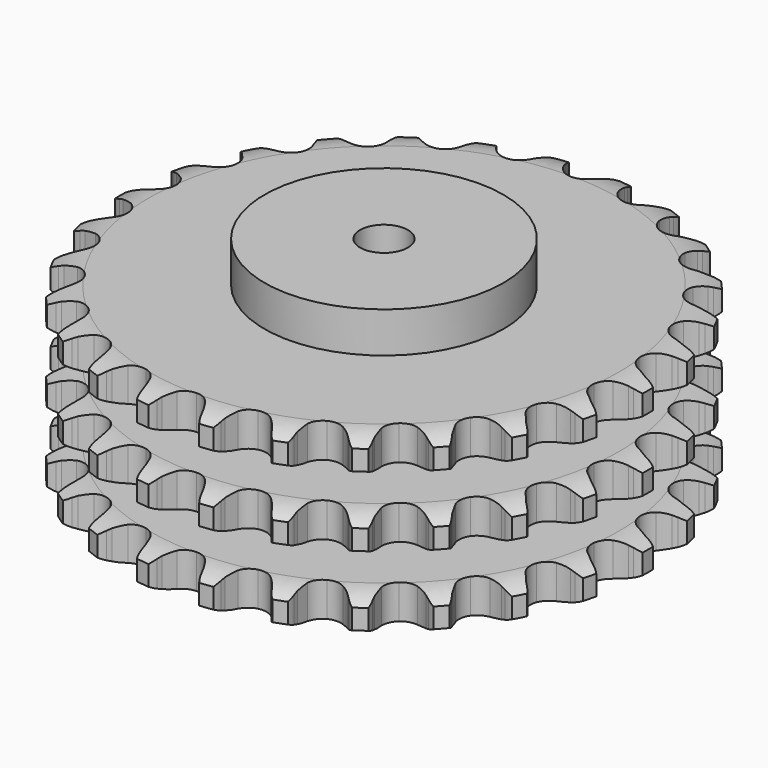
from build123d import *

# Parameters (mm, degrees)
PAD_DEPTH         = 146
SKETCH001_R       = 100
PAD001_DEPTH      = 180
SKETCH002_R       = 20
POCKET_DEPTH      = 0.001
POCKET_DEPTH_BACK = 180.001


with BuildPart() as part:
    # Sprocket → Pad (new body)
    with BuildSketch(Plane.XY):
        with BuildLine():
            ThreePointArc((-27.420974, 225.83204), (-21.977436, 220.908406), (-18.278157, 214.568877))
            Line((-18.278157, 214.568877), (-16.856778, 210.95338))
            ThreePointArc((-16.856778, 210.95338), (-14.597712, 206.200739), (-11.70509, 201.804865))
            ThreePointArc((-11.70509, 201.804865), (-6.530916, 197.536687), (0, 196.008112))
            ThreePointArc((0, 196.008112), (6.530916, 197.536687), (11.70509, 201.804865))
            ThreePointArc((11.70509, 201.804865), (14.597712, 206.200739), (16.856778, 210.95338))
            Line((16.856778, 210.95338), (18.278157, 214.568877))
            ThreePointArc((18.278157, 214.568877), (21.977436, 220.908406), (27.420974, 225.83204))
            ThreePointArc((27.420974, 225.83204), (31.528031, 219.748753), (33.602667, 212.708144))
            Line((33.602667, 212.708144), (34.117498, 208.85755))
            ThreePointArc((34.117498, 208.85755), (35.173538, 203.702382), (36.930104, 198.741993))
            ThreePointArc((36.930104, 198.741993), (40.932484, 193.359581), (46.907812, 190.312473))
            ThreePointArc((46.907812, 190.312473), (53.614763, 190.23368), (59.660026, 193.139571))
            Line((59.660026, 193.139571), (66.851399, 200.789368))
            ThreePointArc((66.851399, 200.789368), (67.933609, 202.403155), (69.09672, 203.959646))
            ThreePointArc((69.09672, 203.959646), (74.205653, 209.229664), (80.669315, 212.707503))
            ThreePointArc((80.669315, 212.707503), (83.201202, 205.818102), (83.530625, 198.485588))
            Line((83.530625, 198.485588), (83.108989, 194.623677))
            ThreePointArc((83.108989, 194.623677), (82.90063, 189.365582), (83.419055, 184.12896))
            ThreePointArc((83.419055, 184.12896), (86.017037, 177.945118), (91.089512, 173.556564))
            ThreePointArc((91.089512, 173.556564), (97.582715, 171.874982), (104.147739, 173.249707))
            Line((104.147739, 173.249707), (112.960859, 178.956207))
            ThreePointArc((112.960859, 178.956207), (114.397827, 180.264111), (115.899633, 181.497022))
            ThreePointArc((115.899633, 181.497022), (122.121308, 185.391255), (129.229449, 187.221179))
            ThreePointArc((129.229449, 187.221179), (130.039022, 179.926051), (128.604087, 172.72777))
            Line((128.604087, 172.72777), (127.270487, 169.078984))
            ThreePointArc((127.270487, 169.078984), (125.809839, 164.023543), (125.059993, 158.81502))
            ThreePointArc((125.059993, 158.81502), (126.102592, 152.189132), (129.97742, 146.714179))
            ThreePointArc((129.97742, 146.714179), (135.879514, 143.527535), (142.582764, 143.2912))
            Line((142.582764, 143.2912), (152.505446, 146.722761))
            ThreePointArc((152.505446, 146.722761), (154.21366, 147.648771), (155.966881, 148.486451))
            ThreePointArc((155.966881, 148.486451), (162.939716, 150.77858), (170.279237, 150.85424))
            ThreePointArc((170.279237, 150.85424), (169.319447, 143.577352), (166.203547, 136.931643))
            Line((166.203547, 136.931643), (164.035487, 133.708035))
            ThreePointArc((164.035487, 133.708035), (161.407436, 129.149052), (159.432899, 124.271329))
            ThreePointArc((159.432899, 124.271329), (158.859523, 117.588467), (161.311514, 111.345299))
            ThreePointArc((161.311514, 111.345299), (166.27949, 106.83879), (172.731396, 105.005129))
            Line((172.731396, 105.005129), (183.18697, 105.962323))
            ThreePointArc((183.18697, 105.962323), (185.067155, 106.452622), (186.9699, 106.846387))
            ThreePointArc((186.9699, 106.846387), (194.28866, 107.403202), (201.433014, 105.720201))
            ThreePointArc((201.433014, 105.720201), (198.759641, 98.884459), (194.143861, 93.177546))
            Line((194.143861, 93.177546), (191.267341, 90.566461))
            ThreePointArc((191.267341, 90.566461), (187.624621, 86.768887), (184.540144, 82.50544))
            ThreePointArc((184.540144, 82.50544), (182.384116, 76.153987), (183.270769, 69.505434))
            ThreePointArc((183.270769, 69.505434), (187.015906, 63.940962), (192.841508, 60.616542))
            Line((192.841508, 60.616542), (203.222333, 59.043739))
            ThreePointArc((203.222333, 59.043739), (205.16522, 59.069833), (207.106909, 58.996799))
            ThreePointArc((207.106909, 58.996799), (214.346253, 57.785941), (220.880237, 54.442089))
            ThreePointArc((220.880237, 54.442089), (216.648647, 48.444761), (210.80124, 44.008308))
            Line((210.80124, 44.008308), (207.383433, 42.161493))
            ThreePointArc((207.383433, 42.161493), (202.937744, 39.34603), (198.922587, 35.944635))
            ThreePointArc((198.922587, 35.944635), (195.309208, 30.293715), (194.578992, 23.626167))
            ThreePointArc((194.578992, 23.626167), (196.883638, 17.327118), (201.744373, 12.705142))
            Line((201.744373, 12.705142), (211.447153, 8.693747))
            ThreePointArc((211.447153, 8.693747), (213.339828, 8.25412), (215.207616, 7.718532))
            ThreePointArc((215.207616, 7.718532), (221.946822, 4.81037), (227.490704, 0))
            ThreePointArc((227.490704, 0), (221.946822, -4.81037), (215.207616, -7.718532))
            Line((215.207616, -7.718532), (211.447153, -8.693747))
            ThreePointArc((211.447153, -8.693747), (206.456864, -10.363475), (201.744373, -12.705142))
            ThreePointArc((201.744373, -12.705142), (196.883638, -17.327118), (194.578992, -23.626167))
            ThreePointArc((194.578992, -23.626167), (195.309208, -30.293715), (198.922587, -35.944635))
            Line((198.922587, -35.944635), (207.383433, -42.161493))
            ThreePointArc((207.383433, -42.161493), (209.1159, -43.041292), (210.80124, -44.008308))
            ThreePointArc((210.80124, -44.008308), (216.648647, -48.444761), (220.880237, -54.442089))
            ThreePointArc((220.880237, -54.442089), (214.346253, -57.785941), (207.106909, -58.996799))
            Line((207.106909, -58.996799), (203.222333, -59.043739))
            ThreePointArc((203.222333, -59.043739), (197.977461, -59.470693), (192.841508, -60.616542))
            ThreePointArc((192.841508, -60.616542), (187.015906, -63.940962), (183.270769, -69.505434))
            ThreePointArc((183.270769, -69.505434), (182.384116, -76.153987), (184.540144, -82.50544))
            Line((184.540144, -82.50544), (191.267341, -90.566461))
            ThreePointArc((191.267341, -90.566461), (192.738917, -91.835301), (194.143861, -93.177546))
            ThreePointArc((194.143861, -93.177546), (198.759641, -98.884459), (201.433014, -105.720201))
            ThreePointArc((201.433014, -105.720201), (194.28866, -107.403202), (186.9699, -106.846387))
            Line((186.9699, -106.846387), (183.18697, -105.962323))
            ThreePointArc((183.18697, -105.962323), (177.992327, -105.12169), (172.731396, -105.005129))
            ThreePointArc((172.731396, -105.005129), (166.27949, -106.83879), (161.311514, -111.345299))
            ThreePointArc((161.311514, -111.345299), (158.859523, -117.588467), (159.432899, -124.271329))
            Line((159.432899, -124.271329), (164.035487, -133.708035))
            ThreePointArc((164.035487, -133.708035), (165.160648, -135.292176), (166.203547, -136.931643))
            ThreePointArc((166.203547, -136.931643), (169.319447, -143.577352), (170.279237, -150.85424))
            ThreePointArc((170.279237, -150.85424), (162.939716, -150.77858), (155.966881, -148.486451))
            Line((155.966881, -148.486451), (152.505446, -146.722761))
            ThreePointArc((152.505446, -146.722761), (147.662926, -144.663397), (142.582764, -143.2912))
            ThreePointArc((142.582764, -143.2912), (135.879514, -143.527535), (129.97742, -146.714179))
            ThreePointArc((129.97742, -146.714179), (126.102592, -152.189132), (125.059993, -158.81502))
            Line((125.059993, -158.81502), (127.270487, -169.078984))
            ThreePointArc((127.270487, -169.078984), (127.983843, -170.886361), (128.604087, -172.72777))
            ThreePointArc((128.604087, -172.72777), (130.039022, -179.926051), (129.229449, -187.221179))
            ThreePointArc((129.229449, -187.221179), (122.121308, -185.391255), (115.899633, -181.497022))
            Line((115.899633, -181.497022), (112.960859, -178.956207))
            ThreePointArc((112.960859, -178.956207), (108.751893, -175.797792), (104.147739, -173.249707))
            ThreePointArc((104.147739, -173.249707), (97.582715, -171.874982), (91.089512, -173.556564))
            ThreePointArc((91.089512, -173.556564), (86.017037, -177.945118), (83.419055, -184.12896))
            Line((83.419055, -184.12896), (83.108989, -194.623677))
            ThreePointArc((83.108989, -194.623677), (83.369082, -196.549253), (83.530625, -198.485588))
            ThreePointArc((83.530625, -198.485588), (83.201202, -205.818102), (80.669315, -212.707503))
            ThreePointArc((80.669315, -212.707503), (74.205653, -209.229664), (69.09672, -203.959646))
            Line((69.09672, -203.959646), (66.851399, -200.789368))
            ThreePointArc((66.851399, -200.789368), (63.520596, -196.71546), (59.660026, -193.139571))
            ThreePointArc((59.660026, -193.139571), (53.614763, -190.23368), (46.907812, -190.312473))
            ThreePointArc((46.907812, -190.312473), (40.932484, -193.359581), (36.930104, -198.741993))
            Line((36.930104, -198.741993), (34.117498, -208.85755))
            ThreePointArc((34.117498, -208.85755), (33.909213, -210.789416), (33.602667, -212.708144))
            ThreePointArc((33.602667, -212.708144), (31.528031, -219.748753), (27.420974, -225.83204))
            ThreePointArc((27.420974, -225.83204), (21.977436, -220.908406), (18.278157, -214.568877))
            Line((18.278157, -214.568877), (16.856778, -210.95338))
            ThreePointArc((16.856778, -210.95338), (14.597712, -206.200739), (11.70509, -201.804865))
            ThreePointArc((11.70509, -201.804865), (6.530916, -197.536687), (0, -196.008112))
            ThreePointArc((0, -196.008112), (-6.530916, -197.536687), (-11.70509, -201.804865))
            Line((-11.70509, -201.804865), (-16.856778, -210.95338))
            ThreePointArc((-16.856778, -210.95338), (-17.521336, -212.779264), (-18.278157, -214.568877))
            ThreePointArc((-18.278157, -214.568877), (-21.977436, -220.908406), (-27.420974, -225.83204))
            ThreePointArc((-27.420974, -225.83204), (-31.528031, -219.748753), (-33.602667, -212.708144))
            Line((-33.602667, -212.708144), (-34.117498, -208.85755))
            ThreePointArc((-34.117498, -208.85755), (-35.173538, -203.702382), (-36.930104, -198.741993))
            ThreePointArc((-36.930104, -198.741993), (-40.932484, -193.359581), (-46.907812, -190.312473))
            ThreePointArc((-46.907812, -190.312473), (-53.614763, -190.23368), (-59.660026, -193.139571))
            Line((-59.660026, -193.139571), (-66.851399, -200.789368))
            ThreePointArc((-66.851399, -200.789368), (-67.933609, -202.403155), (-69.09672, -203.959646))
            ThreePointArc((-69.09672, -203.959646), (-74.205653, -209.229664), (-80.669315, -212.707503))
            ThreePointArc((-80.669315, -212.707503), (-83.201202, -205.818102), (-83.530625, -198.485588))
            Line((-83.530625, -198.485588), (-83.108989, -194.623677))
            ThreePointArc((-83.108989, -194.623677), (-82.90063, -189.365582), (-83.419055, -184.12896))
            ThreePointArc((-83.419055, -184.12896), (-86.017037, -177.945118), (-91.089512, -173.556564))
            ThreePointArc((-91.089512, -173.556564), (-97.582715, -171.874982), (-104.147739, -173.249707))
            Line((-104.147739, -173.249707), (-112.960859, -178.956207))
            ThreePointArc((-112.960859, -178.956207), (-114.397827, -180.264111), (-115.899633, -181.497022))
            ThreePointArc((-115.899633, -181.497022), (-122.121308, -185.391255), (-129.229449, -187.221179))
            ThreePointArc((-129.229449, -187.221179), (-130.039022, -179.926051), (-128.604087, -172.72777))
            Line((-128.604087, -172.72777), (-127.270487, -169.078984))
            ThreePointArc((-127.270487, -169.078984), (-125.809839, -164.023543), (-125.059993, -158.81502))
            ThreePointArc((-125.059993, -158.81502), (-126.102592, -152.189132), (-129.97742, -146.714179))
            ThreePointArc((-129.97742, -146.714179), (-135.879514, -143.527535), (-142.582764, -143.2912))
            Line((-142.582764, -143.2912), (-152.505446, -146.722761))
            ThreePointArc((-152.505446, -146.722761), (-154.21366, -147.648771), (-155.966881, -148.486451))
            ThreePointArc((-155.966881, -148.486451), (-162.939716, -150.77858), (-170.279237, -150.85424))
            ThreePointArc((-170.279237, -150.85424), (-169.319447, -143.577352), (-166.203547, -136.931643))
            Line((-166.203547, -136.931643), (-164.035487, -133.708035))
            ThreePointArc((-164.035487, -133.708035), (-161.407436, -129.149052), (-159.432899, -124.271329))
            ThreePointArc((-159.432899, -124.271329), (-158.859523, -117.588467), (-161.311514, -111.345299))
            ThreePointArc((-161.311514, -111.345299), (-166.27949, -106.83879), (-172.731396, -105.005129))
            Line((-172.731396, -105.005129), (-183.18697, -105.962323))
            ThreePointArc((-183.18697, -105.962323), (-185.067155, -106.452622), (-186.9699, -106.846387))
            ThreePointArc((-186.9699, -106.846387), (-194.28866, -107.403202), (-201.433014, -105.720201))
            ThreePointArc((-201.433014, -105.720201), (-198.759641, -98.884459), (-194.143861, -93.177546))
            Line((-194.143861, -93.177546), (-191.267341, -90.566461))
            ThreePointArc((-191.267341, -90.566461), (-187.624621, -86.768887), (-184.540144, -82.50544))
            ThreePointArc((-184.540144, -82.50544), (-182.384116, -76.153987), (-183.270769, -69.505434))
            ThreePointArc((-183.270769, -69.505434), (-187.015906, -63.940962), (-192.841508, -60.616542))
            Line((-192.841508, -60.616542), (-203.222333, -59.043739))
            ThreePointArc((-203.222333, -59.043739), (-205.16522, -59.069833), (-207.106909, -58.996799))
            ThreePointArc((-207.106909, -58.996799), (-214.346253, -57.785941), (-220.880237, -54.442089))
            ThreePointArc((-220.880237, -54.442089), (-216.648647, -48.444761), (-210.80124, -44.008308))
            Line((-210.80124, -44.008308), (-207.383433, -42.161493))
            ThreePointArc((-207.383433, -42.161493), (-202.937744, -39.34603), (-198.922587, -35.944635))
            ThreePointArc((-198.922587, -35.944635), (-195.309208, -30.293715), (-194.578992, -23.626167))
            ThreePointArc((-194.578992, -23.626167), (-196.883638, -17.327118), (-201.744373, -12.705142))
            Line((-201.744373, -12.705142), (-211.447153, -8.693747))
            ThreePointArc((-211.447153, -8.693747), (-213.339828, -8.25412), (-215.207616, -7.718532))
            ThreePointArc((-215.207616, -7.718532), (-221.946822, -4.81037), (-227.490704, 0))
            ThreePointArc((-227.490704, 0), (-221.946822, 4.81037), (-215.207616, 7.718532))
            Line((-215.207616, 7.718532), (-211.447153, 8.693747))
            ThreePointArc((-211.447153, 8.693747), (-206.456864, 10.363475), (-201.744373, 12.705142))
            ThreePointArc((-201.744373, 12.705142), (-196.883638, 17.327118), (-194.578992, 23.626167))
            ThreePointArc((-194.578992, 23.626167), (-195.309208, 30.293715), (-198.922587, 35.944635))
            Line((-198.922587, 35.944635), (-207.383433, 42.161493))
            ThreePointArc((-207.383433, 42.161493), (-209.1159, 43.041292), (-210.80124, 44.008308))
            ThreePointArc((-210.80124, 44.008308), (-216.648647, 48.444761), (-220.880237, 54.442089))
            ThreePointArc((-220.880237, 54.442089), (-214.346253, 57.785941), (-207.106909, 58.996799))
            Line((-207.106909, 58.996799), (-203.222333, 59.043739))
            ThreePointArc((-203.222333, 59.043739), (-197.977461, 59.470693), (-192.841508, 60.616542))
            ThreePointArc((-192.841508, 60.616542), (-187.015906, 63.940962), (-183.270769, 69.505434))
            ThreePointArc((-183.270769, 69.505434), (-182.384116, 76.153987), (-184.540144, 82.50544))
            Line((-184.540144, 82.50544), (-191.267341, 90.566461))
            ThreePointArc((-191.267341, 90.566461), (-192.738917, 91.835301), (-194.143861, 93.177546))
            ThreePointArc((-194.143861, 93.177546), (-198.759641, 98.884459), (-201.433014, 105.720201))
            ThreePointArc((-201.433014, 105.720201), (-194.28866, 107.403202), (-186.9699, 106.846387))
            Line((-186.9699, 106.846387), (-183.18697, 105.962323))
            ThreePointArc((-183.18697, 105.962323), (-177.992327, 105.12169), (-172.731396, 105.005129))
            ThreePointArc((-172.731396, 105.005129), (-166.27949, 106.83879), (-161.311514, 111.345299))
            ThreePointArc((-161.311514, 111.345299), (-158.859523, 117.588467), (-159.432899, 124.271329))
            Line((-159.432899, 124.271329), (-164.035487, 133.708035))
            ThreePointArc((-164.035487, 133.708035), (-165.160648, 135.292176), (-166.203547, 136.931643))
            ThreePointArc((-166.203547, 136.931643), (-169.319447, 143.577352), (-170.279237, 150.85424))
            ThreePointArc((-170.279237, 150.85424), (-162.939716, 150.77858), (-155.966881, 148.486451))
            Line((-155.966881, 148.486451), (-152.505446, 146.722761))
            ThreePointArc((-152.505446, 146.722761), (-147.662926, 144.663397), (-142.582764, 143.2912))
            ThreePointArc((-142.582764, 143.2912), (-135.879514, 143.527535), (-129.97742, 146.714179))
            ThreePointArc((-129.97742, 146.714179), (-126.102592, 152.189132), (-125.059993, 158.81502))
            Line((-125.059993, 158.81502), (-127.270487, 169.078984))
            ThreePointArc((-127.270487, 169.078984), (-127.983843, 170.886361), (-128.604087, 172.72777))
            ThreePointArc((-128.604087, 172.72777), (-130.039022, 179.926051), (-129.229449, 187.221179))
            ThreePointArc((-129.229449, 187.221179), (-122.121308, 185.391255), (-115.899633, 181.497022))
            Line((-115.899633, 181.497022), (-112.960859, 178.956207))
            ThreePointArc((-112.960859, 178.956207), (-108.751893, 175.797792), (-104.147739, 173.249707))
            ThreePointArc((-104.147739, 173.249707), (-97.582715, 171.874982), (-91.089512, 173.556564))
            ThreePointArc((-91.089512, 173.556564), (-86.017037, 177.945118), (-83.419055, 184.12896))
            Line((-83.419055, 184.12896), (-83.108989, 194.623677))
            ThreePointArc((-83.108989, 194.623677), (-83.369082, 196.549253), (-83.530625, 198.485588))
            ThreePointArc((-83.530625, 198.485588), (-83.201202, 205.818102), (-80.669315, 212.707503))
            ThreePointArc((-80.669315, 212.707503), (-74.205653, 209.229664), (-69.09672, 203.959646))
            Line((-69.09672, 203.959646), (-66.851399, 200.789368))
            ThreePointArc((-66.851399, 200.789368), (-63.520596, 196.71546), (-59.660026, 193.139571))
            ThreePointArc((-59.660026, 193.139571), (-53.614763, 190.23368), (-46.907812, 190.312473))
            ThreePointArc((-46.907812, 190.312473), (-40.932484, 193.359581), (-36.930104, 198.741993))
            Line((-36.930104, 198.741993), (-34.117498, 208.85755))
            ThreePointArc((-34.117498, 208.85755), (-33.909213, 210.789416), (-33.602667, 212.708144))
            ThreePointArc((-33.602667, 212.708144), (-31.528031, 219.748753), (-27.420974, 225.83204))
        make_face()
    extrude(amount=PAD_DEPTH)

    # Sketch → Groove (revolve, cut)
    with BuildSketch(Plane.XZ):
        with BuildLine():
            ThreePointArc((196.95, 0), (209.319317, 1.522732), (220.95, 6))
            Line((220.95, 6), (220.95, 22.8))
            ThreePointArc((220.95, 22.8), (209.319317, 27.277268), (196.95, 28.8))
            Line((100, 28.8), (196.95, 28.8))
            Line((100, 28.8), (100, 58.6))
            Line((100, 58.6), (196.95, 58.6))
            ThreePointArc((196.95, 58.6), (209.319317, 60.122732), (220.95, 64.6))
            Line((220.95, 81.4), (220.95, 64.6))
            ThreePointArc((220.95, 81.4), (209.319317, 85.877268), (196.95, 87.4))
            Line((100, 87.4), (196.95, 87.4))
            Line((100, 117.2), (100, 87.4))
            Line((196.95, 117.2), (100, 117.2))
            ThreePointArc((196.95, 117.2), (209.319317, 118.722732), (220.95, 123.2))
            Line((220.95, 123.2), (220.95, 140))
            ThreePointArc((220.95, 140), (209.319317, 144.477268), (196.95, 146))
            Line((196.95, 146), (230.95, 146))
            Line((230.95, 146), (230.95, 0))
            Line((196.95, 0), (230.95, 0))
        make_face()
    revolve(axis=Axis((0, 0, 0), (0, 0, 1)), mode=Mode.SUBTRACT)

    # Sketch001 → Pad001 (join)
    with BuildSketch(Plane.XY):
        Circle(SKETCH001_R)
    extrude(amount=PAD001_DEPTH)

    # Sketch002 → Pocket (cut, two sides)
    with BuildSketch(Plane.XY) as pocket_sk:
        Circle(SKETCH002_R)
    extrude(amount=-POCKET_DEPTH, mode=Mode.SUBTRACT)
    extrude(pocket_sk.sketch, amount=POCKET_DEPTH_BACK, mode=Mode.SUBTRACT)


solid = part.part
